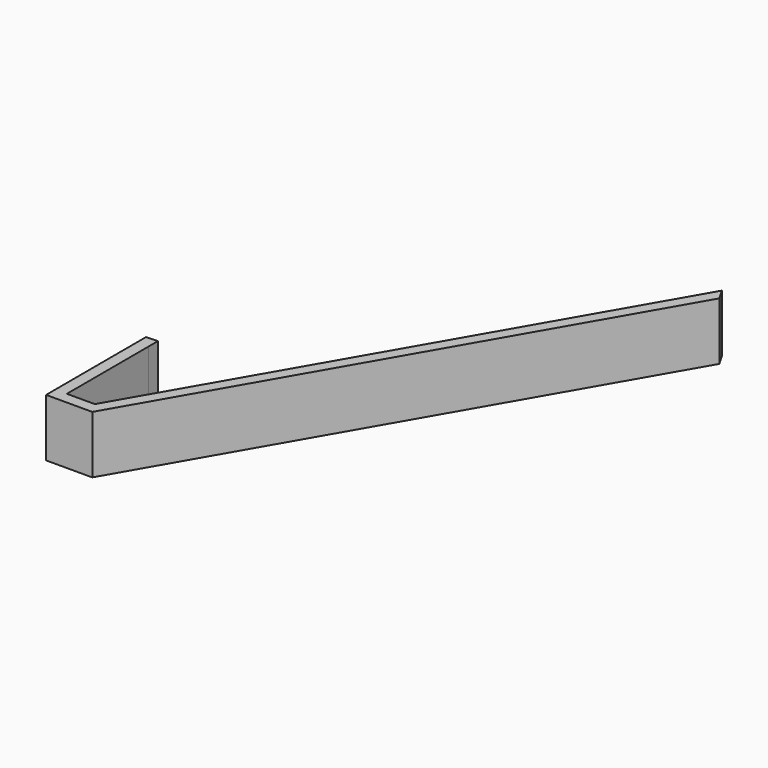
from build123d import *

# Parameters (mm, degrees)
F1_DEPTH = 25


with BuildPart() as f1:
    # F0 (on Top) → F1 (new body)
    with BuildSketch(Plane.XY):
        with BuildLine():
            Line((92.1273999189, -18.1590799378), (133.9150989845, 54.4172851264))
            Line((133.9150989845, 54.4172851264), (131.0224405645, 59.41387002))
            Line((131.0224405645, 59.41387002), (93.7490552312, -5.3220901218))
            Line((93.7490552312, -5.3220901218), (87.3759019195, -16.3909049094))
            Line((87.3759019195, -16.3909049094), (58.0422138833, -67.3372958139))
            Line((58.0422138833, -67.3372958139), (51.6690605717, -78.4061106014))
            Line((51.6690605717, -78.4061106014), (17.2765154783, -138.1386626202))
            Line((17.2765154783, -138.1386626202), (5.1632752835, -138.1529782756))
            Line((5.1632752835, -138.1529782756), (5.1108117836, -93.7608105922))
            Line((5.1108117836, -93.7608105922), (5.1048938253, -88.75331013))
            ThreePointArc((5.1048938253, -88.75331013), (2.6060101832, -88.8617955644), (0.105063621, -88.8999379169))
            Line((0.105063621, -88.8999379169), (0.110972711, -93.8999344252))
            Line((0.110972711, -93.8999344252), (0.1632787752, -138.1588873657))
            Line((0.1632787752, -138.1588873657), (0.1691878653, -143.158883874))
            Line((0.1691878653, -143.158883874), (20.1691738983, -143.1352475138))
            Line((20.1691738983, -143.1352475138), (61.956872964, -70.5588824495))
            Line((61.956872964, -70.5588824495), (92.1273999189, -18.1590799378))
        make_face()
    extrude(amount=F1_DEPTH)


solid = f1.part
